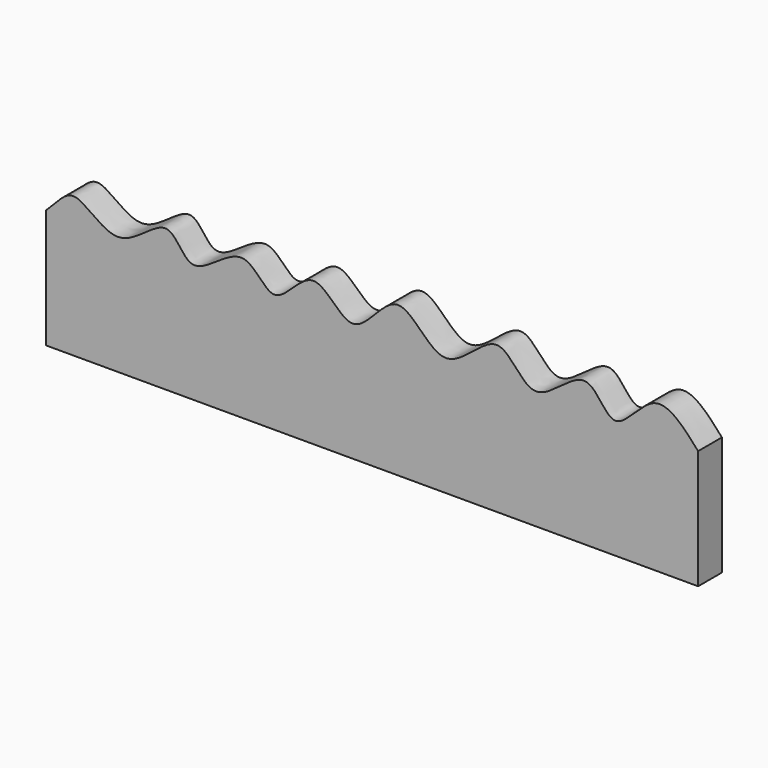
from build123d import *

# Parameters (mm, degrees)
F1_DEPTH = 3.175


with BuildPart() as f1:
    # F0 (on Front) → F1 (new body)
    with BuildSketch(Plane.XZ):
        with BuildLine():
            add(Edge.make_bspline(
                [(-37.5231436843, 0), (-36.3927771093, 1.0242963358), (-34.6164926568, 3.9971829893), (-29.7958659484, -2.3889375686), (-24.3190933128, 4.760125995), (-22.1977271463, -2.3755454947), (-16.3064218365, 4.760159534), (-13.239334767, -2.404833422), (-8.9223851264, 5.3095028697), (-4.7052205312, -2.9422708389), (0.054430673, 6.5629794633), (4.8879298256, -3.2404575053), (10.8899600841, 5.9598858668), (14.3180784031, -2.8718691554), (20.3104321589, 5.3175418194), (22.9858060279, -2.4987921766), (27.4492487775, 5.2042053892), (30.5183075752, 1.7497572769), (32.0728563157, 0)],
                knots=[0, 0, 0, 0, 0.0538521041, 0.1172382831, 0.1831463457, 0.2363286705, 0.3025561013, 0.3589853644, 0.4202486048, 0.4820978623, 0.5486870633, 0.6167693925, 0.6863466716, 0.748222084, 0.8158382364, 0.8718199525, 0.9348038452, 1, 1, 1, 1], degree=3))
            Line((-37.5231436843, 0), (-37.5231436843, -12.7))
            Line((-37.5231436843, -12.7), (32.0728563157, -12.7))
            Line((32.0728563157, -12.7), (32.0728563157, 0))
        make_face()
    extrude(amount=F1_DEPTH)


solid = f1.part
